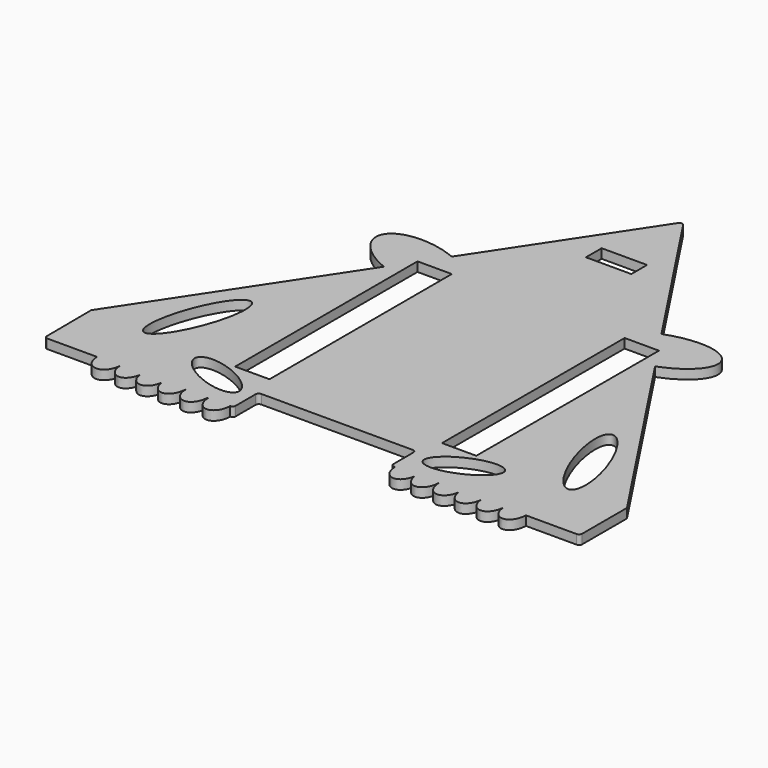
from build123d import *

# Parameters (mm, degrees)
F0_W     = 11
F0_H     = 73.0535946786
F0_W_2   = 14.55
F0_H_2   = 6.3
F1_DEPTH = 3


with BuildPart() as f1:
    # F0 (on Top) → F1 (new body)
    with BuildSketch(Plane.XY):
        with BuildLine():
            ThreePointArc((-85.7856848061, -48.505251108), (-85.4909475911, -49.2089631354), (-84.7856985751, -49.5000034571))
            Line((-84.7856985751, -49.5000034571), (-68.9299244289, -49.5000034571))
            Line((-68.9299244289, -49.5000034571), (-61.4353581368, -49.5000034571))
            Line((-61.4353581368, -49.5000034571), (-54.4939316693, -49.5000034571))
            Line((-54.4939316693, -49.5000034571), (-54.4964335859, -50.4300000917))
            add(Edge.make_bspline(
                [(-54.4964335859, -50.4300000917), (-53.9489045305, -54.5619244379), (-51.0055141238, -54.4994516979), (-48.062123717, -54.4369789579), (-47.6007624642, -50.2836411622)],
                knots=[4.89947782, 4.89947782, 4.89947782, 6.2980415426, 6.2980415426, 7.6966052651, 7.6966052651, 7.6966052651], degree=2, weights=[1, 0.7653046277, 1, 0.7653046277, 1]))
            Line((-47.6007624642, -50.2836411622), (-47.6007624642, -49.5000034571))
            Line((-47.6007624642, -49.5000034571), (-40.6440158935, -49.5000034571))
            Line((-40.6440158935, -49.5000034571), (-40.5326788576, -49.5000034571))
            Line((-40.5326788576, -49.5000034571), (-33.5326788576, -49.5000034571))
            Line((-33.5326788576, -49.5000034571), (-33.2731907519, -49.5000034571))
            Line((-33.2731907519, -49.5000034571), (-26.2804646211, -49.5000034571))
            ThreePointArc((-26.2804646211, -49.5000034571), (-26.2768276625, -49.4999968433), (-26.2731907519, -49.4999770021))
            ThreePointArc((-26.2731907519, -49.4999770021), (-25.5707907984, -49.2045338435), (-25.2804646211, -48.5000034571))
            Line((-25.2804646211, -48.5000034571), (-25.2804646211, -40.5000034571))
            ThreePointArc((-25.2804646211, -40.5000034571), (-24.9875714023, -39.7928966759), (-24.2804646211, -39.5000034571))
            Line((-24.2804646211, -39.5000034571), (0.0080129938, -39.5000034571))
            Line((0.0080129938, -39.5000034571), (24.2804646211, -39.5000034571))
            ThreePointArc((24.2804646211, -39.5000034571), (24.9875714023, -39.7928966759), (25.2804646211, -40.5000034571))
            Line((25.2804646211, -40.5000034571), (25.2804646211, -48.5000034571))
            ThreePointArc((25.2804646211, -48.5000034571), (25.5733578399, -49.2071102383), (26.2804646211, -49.5000034571))
            Line((26.2804646211, -49.5000034571), (26.6061850041, -49.5000034571))
            Line((26.6061850041, -49.5000034571), (33.6094798, -49.5000034571))
            Line((33.6094798, -49.5000034571), (40.528003484, -49.5000034571))
            Line((40.528003484, -49.5000034571), (40.6009402275, -49.5000034571))
            Line((40.6009402275, -49.5000034571), (47.6053172203, -49.5000034571))
            Line((47.6053172203, -49.5000034571), (54.5243214667, -49.5000034571))
            Line((54.5243214667, -49.5000034571), (61.5002851784, -49.5000034571))
            Line((61.5002851784, -49.5000034571), (61.5318711996, -49.5000034571))
            Line((61.5318711996, -49.5000034571), (68.5318711996, -49.5000034571))
            Line((68.5318711996, -49.5000034571), (84.7804646211, -49.5000034571))
            ThreePointArc((84.7804646211, -49.5000034571), (85.4875714023, -49.2071102383), (85.7804646211, -48.5000034571))
            Line((85.7804646211, -48.5000034571), (85.7804646211, -30.5649356997))
            Line((85.7804646211, -30.5649356997), (43.3664230703, 33.708122717))
            Line((43.3664230703, 33.708122717), (43.3420082833, 33.7081147164))
            add(Edge.make_bspline(
                [(43.3420082833, 33.7081147164), (58.9825854354, 39.6237113716), (54.1552384869, 46.9855440531), (49.3278915384, 54.3473767347), (33.6841810231, 48.4365585419)],
                knots=[1.7243334024, 1.7243334024, 1.7243334024, 3.2948051862, 3.2948051862, 4.86527697, 4.86527697, 4.86527697], degree=2, weights=[1, 0.7072215152, 1, 0.7072215152, 1]))
            Line((33.6841810231, 48.4365585419), (33.619058901, 48.4790071635))
            Line((33.619058901, 48.4790071635), (0.9523815194, 97.9811811337))
            ThreePointArc((0.9523815194, 97.9811811337), (0.5920150312, 98.3107689704), (0.1185365363, 98.4303944806))
            ThreePointArc((0.1185365363, 98.4303944806), (-0.3551330622, 98.3115279195), (-0.7160272843, 97.9825180286))
            Line((-0.7160272843, 97.9825180286), (-33.5126452304, 48.4562718246))
            Line((-33.5126452304, 48.4562718246), (-33.558400511, 48.4254359328))
            add(Edge.make_bspline(
                [(-33.558400511, 48.4254359328), (-49.3295986778, 55.0156726288), (-54.304702772, 47.4834180097), (-59.2798068663, 39.9511633907), (-43.4009940183, 33.5238541763)],
                knots=[1.422954115, 1.422954115, 1.422954115, 3.0045659723, 3.0045659723, 4.5861778295, 4.5861778295, 4.5861778295], degree=2, weights=[1, 0.7032725931, 1, 0.7032725931, 1]))
            Line((-43.4009940183, 33.5238541763), (-85.8795255346, -30.6230713915))
            Line((-85.8795255346, -30.6230713915), (-85.7856848061, -48.505251108))
        make_face()
        with BuildLine():
            add(Edge.make_bspline(
                [(-68.1659526923, -31.7135490477), (-60.5147940439, -34.4461020139), (-56.3683340858, -10.7580853655), (-52.2218741276, 12.929931283), (-64.0194927341, -8.0255323992), (-75.8171113406, -28.9809960815), (-68.1659526923, -31.7135490477)],
                knots=[0, 0, 0, 2.0943951024, 2.0943951024, 4.1887902048, 4.1887902048, 6.2831853072, 6.2831853072, 6.2831853072], degree=2, weights=[1, 0.5, 1, 0.5, 1, 0.5, 1]))
        make_face(mode=Mode.SUBTRACT)
        with BuildLine():
            add(Edge.make_bspline(
                [(-49.2456242242, -34.0520180762), (-52.2540837889, -40.9714753387), (-36.0812831751, -43.8893859564), (-19.9084825613, -46.8072965741), (-33.0728236104, -36.9699286939), (-46.2371646594, -27.1325608136), (-49.2456242242, -34.0520180762)],
                knots=[0, 0, 0, 2.0943951024, 2.0943951024, 4.1887902048, 4.1887902048, 6.2831853072, 6.2831853072, 6.2831853072], degree=2, weights=[1, 0.5, 1, 0.5, 1, 0.5, 1]))
        make_face(mode=Mode.SUBTRACT)
        with Locations((-33.1490184932, 4.5174889822)):
            Rectangle(F0_W, F0_H, mode=Mode.SUBTRACT)
        with BuildLine():
            add(Edge.make_bspline(
                [(49.4799129665, -34.0520180762), (46.4714534017, -27.1325608136), (33.3071123527, -36.9699286939), (20.1427713037, -46.8072965741), (36.3155719175, -43.8893859564), (52.4883725313, -40.9714753387), (49.4799129665, -34.0520180762)],
                knots=[0, 0, 0, 2.0943951024, 2.0943951024, 4.1887902048, 4.1887902048, 6.2831853072, 6.2831853072, 6.2831853072], degree=2, weights=[1, 0.5, 1, 0.5, 1, 0.5, 1]))
        make_face(mode=Mode.SUBTRACT)
        with BuildLine():
            add(Edge.make_bspline(
                [(68.4002414346, -31.7135490477), (76.0514000829, -28.9809960815), (64.2537814764, -8.0255323992), (52.4561628699, 12.929931283), (56.6026228281, -10.7580853655), (60.7490827862, -34.4461020139), (68.4002414346, -31.7135490477)],
                knots=[0, 0, 0, 2.0943951024, 2.0943951024, 4.1887902048, 4.1887902048, 6.2831853072, 6.2831853072, 6.2831853072], degree=2, weights=[1, 0.5, 1, 0.5, 1, 0.5, 1]))
        make_face(mode=Mode.SUBTRACT)
        Polygon((27.7940890609, 40.9998597937), (38.7940749351, 40.9822312187), (38.6769994099, -32.0712696474), (27.6770135357, -32.0536410724), align=None, mode=Mode.SUBTRACT)
        with Locations((0.1765319429, 72.2562882543)):
            Rectangle(F0_W_2, F0_H_2, mode=Mode.SUBTRACT)
        with BuildLine():
            Line((-61.4353581368, -49.5000034571), (-68.9299244289, -49.5000034571))
            add(Edge.make_bspline(
                [(-68.9299244289, -49.5000034571), (-68.9299244289, -54.5000034571), (-65.1826412829, -54.5000034571), (-61.4353581368, -54.5000034571), (-61.4353581368, -49.5000034571)],
                knots=[4.7123889804, 4.7123889804, 4.7123889804, 6.2831853072, 6.2831853072, 7.853981634, 7.853981634, 7.853981634], degree=2, weights=[1, 0.7071067812, 1, 0.7071067812, 1]))
        make_face()
        with BuildLine():
            Line((-54.4939316693, -49.5000034571), (-61.4353581368, -49.5000034571))
            add(Edge.make_bspline(
                [(-61.4353581368, -49.5000034571), (-61.4353581368, -54.0528687331), (-58.2622863183, -54.4781430088), (-55.0892144997, -54.9034172845), (-54.4964335859, -50.4300000917)],
                knots=[4.7123889804, 4.7123889804, 4.7123889804, 6.1896408874, 6.1896408874, 7.6668927943, 7.6668927943, 7.6668927943], degree=2, weights=[1, 0.7393943643, 1, 0.7393943643, 1]))
            Line((-54.4964335859, -50.4300000917), (-54.4939316693, -49.5000034571))
        make_face()
        with BuildLine():
            Line((-33.5326788576, -49.5000034571), (-40.5326788576, -49.5000034571))
            add(Edge.make_bspline(
                [(-40.5326788576, -49.5000034571), (-40.5326788576, -54.5000034571), (-37.0326788576, -54.5000034571), (-33.5326788576, -54.5000034571), (-33.5326788576, -49.5000034571)],
                knots=[4.7123889804, 4.7123889804, 4.7123889804, 6.2831853072, 6.2831853072, 7.853981634, 7.853981634, 7.853981634], degree=2, weights=[1, 0.7071067812, 1, 0.7071067812, 1]))
        make_face()
        with BuildLine():
            Line((-47.6007624642, -49.5000034571), (-47.6007624642, -50.2836411622))
            add(Edge.make_bspline(
                [(-47.6007624642, -50.2836411622), (-47.0937668544, -54.8477956417), (-43.8688913739, -54.4845318667), (-40.6440158935, -54.1212680917), (-40.6440158935, -49.5000034571)],
                knots=[4.8697653493, 4.8697653493, 4.8697653493, 6.3618734916, 6.3618734916, 7.853981634, 7.853981634, 7.853981634], degree=2, weights=[1, 0.7343728636, 1, 0.7343728636, 1]))
            Line((-40.6440158935, -49.5000034571), (-47.6007624642, -49.5000034571))
        make_face()
        with BuildLine():
            Line((-26.2804646211, -49.5000034571), (-33.2731907519, -49.5000034571))
            add(Edge.make_bspline(
                [(-33.2731907519, -49.5000034571), (-33.2731907519, -54.5000166846), (-29.7731814926, -54.5000034571), (-26.2731722334, -54.4999902295), (-26.2731907519, -49.4999770021)],
                knots=[4.7123889804, 4.7123889804, 4.7123889804, 6.2831879527, 6.2831879527, 7.853986925, 7.853986925, 7.853986925], degree=2, weights=[1, 0.7071058459, 1, 0.7071058459, 1]))
            ThreePointArc((-26.2731907519, -49.4999770021), (-26.2768276625, -49.4999968433), (-26.2804646211, -49.5000034571))
        make_face()
        with BuildLine():
            Line((33.6094798, -49.5000034571), (26.6061850041, -49.5000034571))
            add(Edge.make_bspline(
                [(26.6061850041, -49.5000034571), (26.6061850041, -54.1393314863), (29.8446341867, -54.4860229258), (33.0830833693, -54.8327143653), (33.5670942441, -50.24520201)],
                knots=[4.7123889804, 4.7123889804, 4.7123889804, 6.2083867743, 6.2083867743, 7.7043845683, 7.7043845683, 7.7043845683], degree=2, weights=[1, 0.7330514324, 1, 0.7330514324, 1]))
            Line((33.5670942441, -50.24520201), (33.6094798, -49.5000034571))
        make_face()
        with BuildLine():
            Line((54.5123033226, -49.9139998416), (54.5243214667, -49.5000034571))
            Line((54.5243214667, -49.5000034571), (47.6053172203, -49.5000034571))
            Line((47.6053172203, -49.5000034571), (47.5626308471, -50.2377579849))
            add(Edge.make_bspline(
                [(47.5626308471, -50.2377579849), (48.0226120838, -54.6424992613), (51.1383967745, -54.4973470012), (54.2541814653, -54.3521947411), (54.5123033226, -49.9139998416)],
                knots=[4.8604805954, 4.8604805954, 4.8604805954, 6.3157840256, 6.3157840256, 7.7710874559, 7.7710874559, 7.7710874559], degree=2, weights=[1, 0.7467383462, 1, 0.7467383462, 1]))
        make_face()
        with BuildLine():
            Line((47.5626308471, -50.2377579849), (47.6053172203, -49.5000034571))
            Line((47.6053172203, -49.5000034571), (40.6009402275, -49.5000034571))
            add(Edge.make_bspline(
                [(40.6009402275, -49.5000034571), (40.6009402275, -54.1428346415), (43.8420166563, -54.4863027646), (47.0830930851, -54.8297708877), (47.5626308471, -50.2377579849)],
                knots=[4.7123889804, 4.7123889804, 4.7123889804, 6.2091394997, 6.2091394997, 7.705890019, 7.705890019, 7.705890019], degree=2, weights=[1, 0.7327953886, 1, 0.7327953886, 1]))
        make_face()
        with BuildLine():
            Line((40.528003484, -49.5000034571), (33.6094798, -49.5000034571))
            Line((33.6094798, -49.5000034571), (33.5670942441, -50.24520201))
            add(Edge.make_bspline(
                [(33.5670942441, -50.24520201), (34.0511051188, -54.8327143653), (37.2895543014, -54.4860229258), (40.528003484, -54.1393314863), (40.528003484, -49.5000034571)],
                knots=[4.8619860461, 4.8619860461, 4.8619860461, 6.35798384, 6.35798384, 7.853981634, 7.853981634, 7.853981634], degree=2, weights=[1, 0.7330514324, 1, 0.7330514324, 1]))
        make_face()
        with BuildLine():
            add(Edge.make_bspline(
                [(54.5123033226, -49.9139998416), (54.7903317418, -54.6944718456), (58.1453084601, -54.4957094189), (61.5002851784, -54.2969469922), (61.5002851784, -49.5000034571)],
                knots=[4.7952831585, 4.7952831585, 4.7952831585, 6.3246323962, 6.3246323962, 7.853981634, 7.853981634, 7.853981634], degree=2, weights=[1, 0.7216076577, 1, 0.7216076577, 1]))
            Line((61.5002851784, -49.5000034571), (54.5243214667, -49.5000034571))
            Line((54.5243214667, -49.5000034571), (54.5123033226, -49.9139998416))
        make_face()
        with BuildLine():
            add(Edge.make_bspline(
                [(61.5318711996, -49.5000034571), (61.5318711996, -54.5000034571), (65.0318711996, -54.5000034571), (68.5318711996, -54.5000034571), (68.5318711996, -49.5000034571)],
                knots=[4.7123889804, 4.7123889804, 4.7123889804, 6.2831853072, 6.2831853072, 7.853981634, 7.853981634, 7.853981634], degree=2, weights=[1, 0.7071067812, 1, 0.7071067812, 1]))
            Line((68.5318711996, -49.5000034571), (61.5318711996, -49.5000034571))
        make_face()
    extrude(amount=F1_DEPTH)


solid = f1.part
